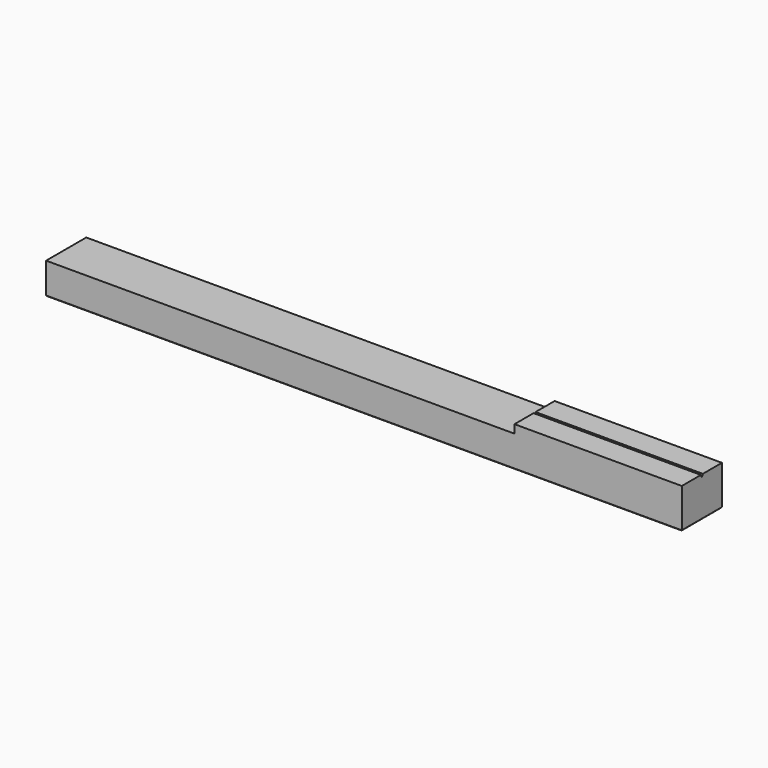
from build123d import *

# Parameters (mm, degrees)
F0_W     = 76
F0_H     = 6
F1_DEPTH = 7
F2_W     = 76.920286
F2_H     = 6
F3_DEPTH = 2.237
F5_DEPTH = 76.001
F6_SIZE  = 0.1
F7_W     = 58.94864
F7_H     = 6
F8_DEPTH = 1


with BuildPart() as f1:
    # F0 (on Top) → F1 (new body)
    with BuildSketch(Plane.XY):
        Rectangle(F0_W, F0_H)
    extrude(amount=F1_DEPTH)

    # F2 (on face) → F3 (cut)
    with BuildSketch(Plane.XY.offset(7)):
        with Locations((0.460143, 0)):
            Rectangle(F2_W, F2_H)
    extrude(amount=-F3_DEPTH, mode=Mode.SUBTRACT)

    # F4 (on face) → F5 (cut, through all)
    with BuildSketch(Plane.YZ.offset(38)):
        with BuildLine():
            Line((1.437258, 7), (-1.437258, 7))
            Line((-1.437258, 7), (-0.109352, 4.7))
            Line((-0.109352, 4.7), (-0.046194, 4.547522))
            ThreePointArc((-0.046194, 4.547522), (0, 4.516656), (0.046194, 4.547522))
            Line((0.046194, 4.547522), (0.109352, 4.7))
            Line((0.109352, 4.7), (1.437258, 7))
        make_face()
    extrude(amount=-F5_DEPTH, mode=Mode.SUBTRACT)

    # F6
    f6_edges = [f1.edges().sort_by_distance(p)[0] for p in [
        (0, -3, 0),
        (38, 0, 0),
        (0, 3, 0),
        (-38, 0, 0),
        (-38, -1.572863, 4.763),
        (-38, 1.572863, 4.763),
    ]]
    chamfer(f6_edges, length=F6_SIZE)

    # F7 (on face) → F8 (cut)
    with BuildSketch(Plane.XY.offset(4.763)):
        with Locations((-11.47432, 0)):
            Rectangle(F7_W, F7_H)
    extrude(amount=-F8_DEPTH, mode=Mode.SUBTRACT)


solid = f1.part
